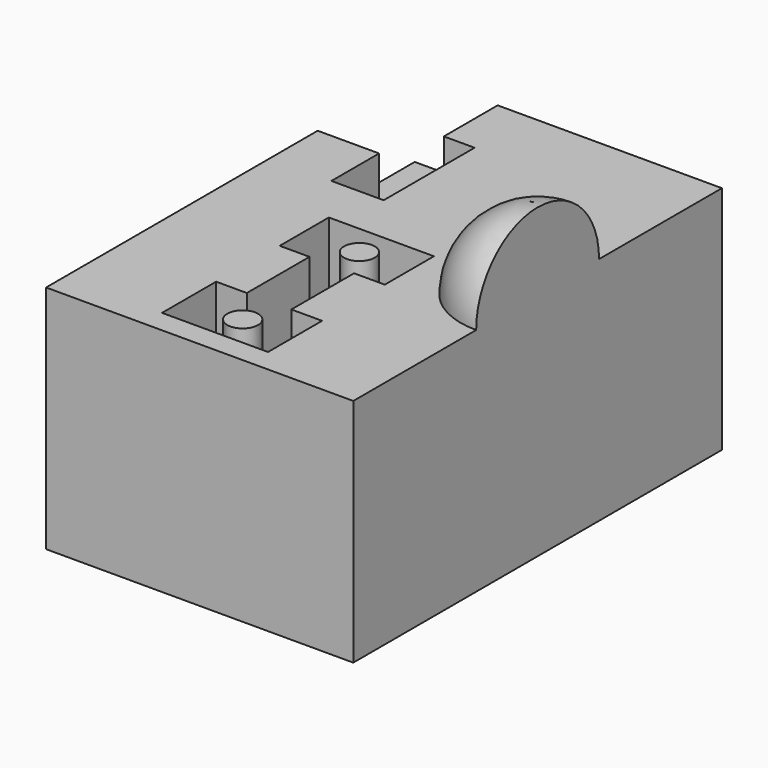
from build123d import *

# Parameters (mm, degrees)
F0_W     = 50.8
F0_H     = 76.2
F1_DEPTH = 38.1
F3_ANGLE = 90
F4_DEPTH = 12.7
F2_R     = 2.54
F5_DEPTH = 12.7


with BuildPart() as f1:
    # F0 (on Top) → F1 (new body)
    with BuildSketch(Plane.XY):
        Rectangle(F0_W, F0_H)
    extrude(amount=F1_DEPTH)

    # F2 (on face) → F3 (revolve)
    with BuildSketch(Plane.XY.offset(38.1)):
        with BuildLine():
            Line((25.4, -12.7), (25.4, 12.7))
            ThreePointArc((25.4, 12.7), (12.7, 0), (25.4, -12.7))
        make_face()
        with BuildLine():
            Line((25.4, -12.7), (25.4, 12.7))
            ThreePointArc((25.4, 12.7), (12.7, 0), (25.4, -12.7))
        make_face()
    revolve(axis=Axis((25.4, 0, 38.1), (0, 1, 0)), revolution_arc=F3_ANGLE)

    # F2 (on face) → F4 (cut)
    with BuildSketch(Plane.XY.offset(38.1)):
        Polygon((-11.684, 38.1), (-25.4, 38.1), (-25.4, 18.034), (-15.24, 18.034), (-15.24, 8.1802008182), (-6.604, 8.1802008182), (-6.604, 26.9762008182), (-11.684, 26.9762008182), align=None)
    extrude(amount=-F4_DEPTH, mode=Mode.SUBTRACT)

    # F2 (on face) → F5 (cut)
    with BuildSketch(Plane.XY.offset(38.1)):
        Polygon((-9.271, -23.114), (-9.271, -34.29), (8.255, -34.29), (8.255, -23.114), (3.175, -23.114), (3.175, -10.16), (8.255, -10.16), (8.255, 0), (-9.1186, 0), (-9.1186, -10.16), (-4.191, -10.16), (-4.191, -23.114), align=None)
        with Locations((0, -29.21)):
            Circle(F2_R, mode=Mode.SUBTRACT)
        with Locations((0, -5.08)):
            Circle(F2_R, mode=Mode.SUBTRACT)
        Polygon((-9.271, -23.114), (-9.271, -34.29), (8.255, -34.29), (8.255, -23.114), (3.175, -23.114), (3.175, -10.16), (8.255, -10.16), (8.255, 0), (-9.1186, 0), (-9.1186, -10.16), (-4.191, -10.16), (-4.191, -23.114), align=None)
        with Locations((0, -29.21)):
            Circle(F2_R, mode=Mode.SUBTRACT)
        with Locations((0, -5.08)):
            Circle(F2_R, mode=Mode.SUBTRACT)
        Polygon((-9.271, -23.114), (-9.271, -34.29), (8.255, -34.29), (8.255, -23.114), (3.175, -23.114), (3.175, -10.16), (8.255, -10.16), (8.255, 0), (-9.1186, 0), (-9.1186, -10.16), (-4.191, -10.16), (-4.191, -23.114), align=None)
        with Locations((0, -29.21)):
            Circle(F2_R, mode=Mode.SUBTRACT)
        with Locations((0, -5.08)):
            Circle(F2_R, mode=Mode.SUBTRACT)
        Polygon((-9.271, -23.114), (-9.271, -34.29), (8.255, -34.29), (8.255, -23.114), (3.175, -23.114), (3.175, -10.16), (8.255, -10.16), (8.255, 0), (-9.1186, 0), (-9.1186, -10.16), (-4.191, -10.16), (-4.191, -23.114), align=None)
        with Locations((0, -29.21)):
            Circle(F2_R, mode=Mode.SUBTRACT)
        with Locations((0, -5.08)):
            Circle(F2_R, mode=Mode.SUBTRACT)
    extrude(amount=-F5_DEPTH, mode=Mode.SUBTRACT)


solid = f1.part
